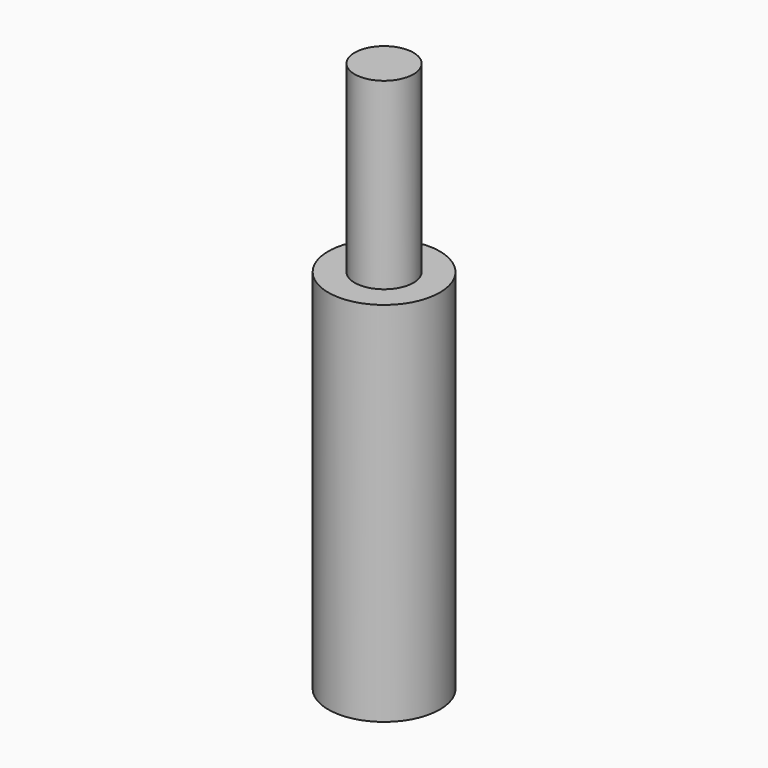
from build123d import *

# Parameters (mm, degrees)
F0_R     = 7.6
F0_R_2   = 4
F1_DEPTH = 50
F2_DEPTH = 25


with BuildPart() as f1:
    # F0 (on Top) → F1 (new body)
    with BuildSketch(Plane.XY):
        with Locations((-47.129215, 0)):
            Circle(F0_R)
        with Locations((-47.129215, 0)):
            Circle(F0_R_2, mode=Mode.SUBTRACT)
        with Locations((-47.129215, 0)):
            Circle(F0_R_2)
    extrude(amount=-F1_DEPTH)

    # F0 (on Top) → F2 (join)
    with BuildSketch(Plane.XY):
        with Locations((-47.129215, 0)):
            Circle(F0_R_2)
    extrude(amount=F2_DEPTH)


with BuildPart() as f1_1:
    # F3: moved
    add(f1.part.moved(Location((0, -5, 25))))


solid = f1_1.part
